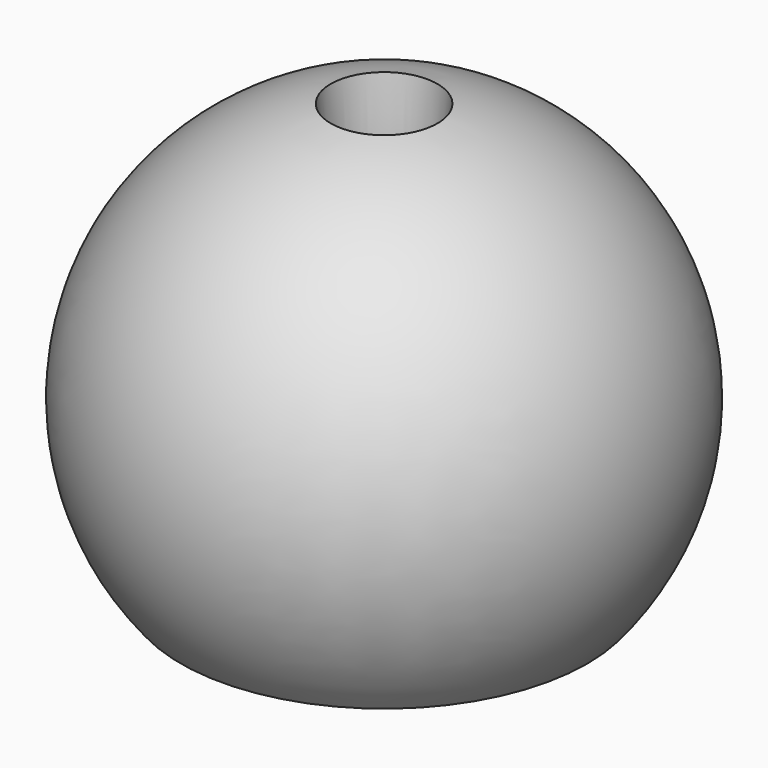
from build123d import *


with BuildPart() as f1:
    # F0 (on Front) → F1 (revolve)
    with BuildSketch(Plane.XZ):
        with BuildLine():
            ThreePointArc((-41.714227, -34.525077), (-15.843422, 5.566517), (-10.952395, 53.029263))
            ThreePointArc((-10.952395, 53.029263), (-51.087023, 17.9492), (-41.714227, -34.525077))
        make_face()
    revolve(axis=Axis((0, 0, -0.997495), (0, 0, -1)))


solid = f1.part
